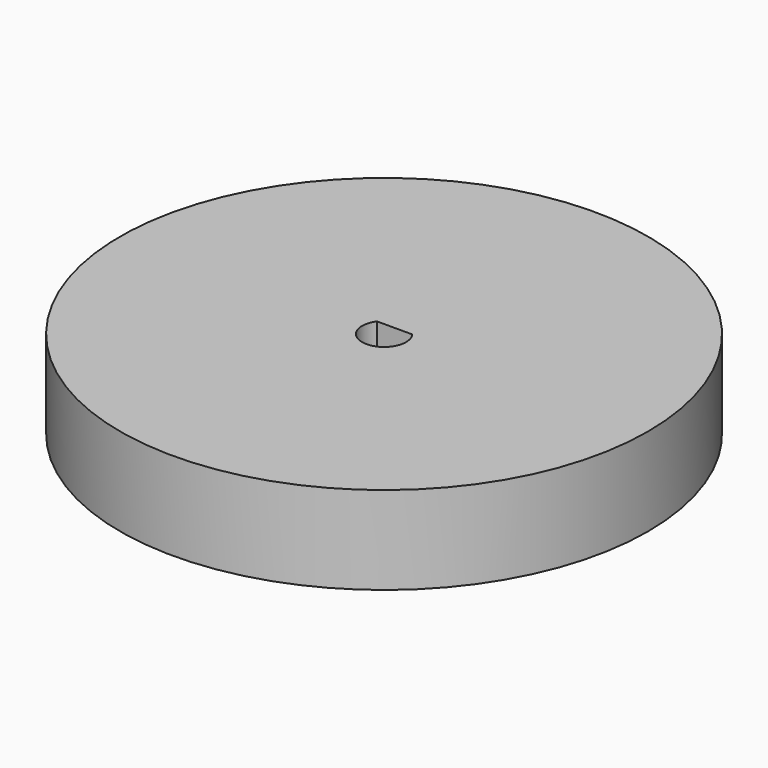
from build123d import *

# Parameters (mm, degrees)
F0_R     = 38.1
F1_DEPTH = 12.7


with BuildPart() as f1:
    # F0 (on Top) → F1 (new body)
    with BuildSketch(Plane.XY):
        with Locations((-84.729325, -10.476868)):
            Circle(F0_R)
        with BuildLine():
            ThreePointArc((-82.189325, -8.571868), (-84.729325, -13.651868), (-87.269325, -8.571868))
            Line((-87.269325, -8.571868), (-82.189325, -8.571868))
        make_face(mode=Mode.SUBTRACT)
    extrude(amount=F1_DEPTH)


solid = f1.part
